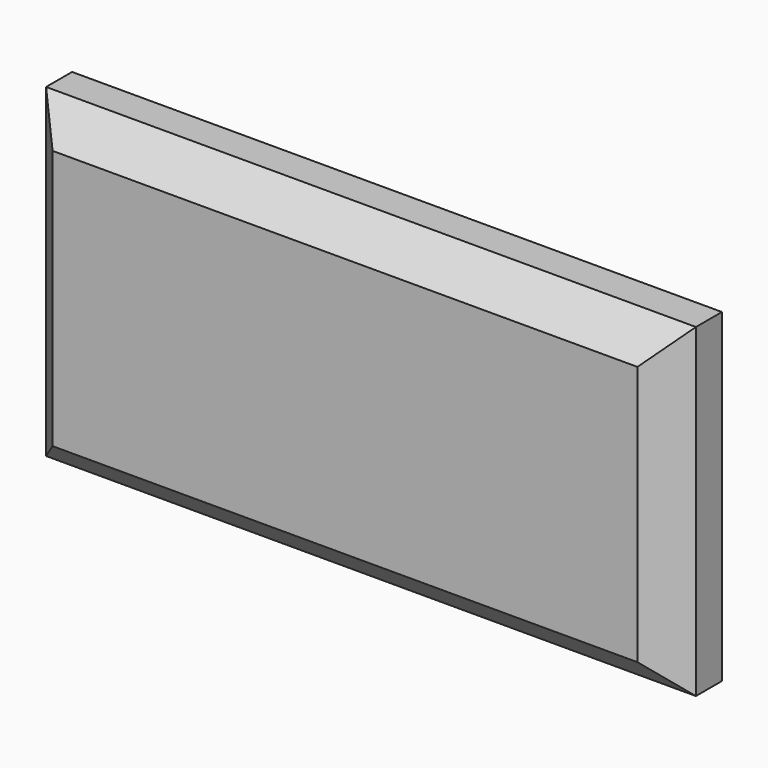
from build123d import *

# Parameters (mm, degrees)
F0_W     = 200
F0_H     = 100
F1_DEPTH = 30
F2_SIZE  = 10
F3_SIZE  = 10
F4_SIZE  = 10
F5_SIZE  = 10
F6_SIZE  = 10
F7_SIZE  = 10
F8_SIZE  = 10
F9_SIZE  = 10


with BuildPart() as f1:
    # F0 (on Front) → F1 (new body)
    with BuildSketch(Plane.XZ):
        Rectangle(F0_W, F0_H)
    extrude(amount=F1_DEPTH)

    # F2
    f2_edges = [f1.edges().sort_by_distance(p)[0] for p in [
        (0, -30, 50),
    ]]
    chamfer(f2_edges, length=F2_SIZE)

    # F3
    f3_edges = [f1.edges().sort_by_distance(p)[0] for p in [
        (0, 0, 50),
    ]]
    chamfer(f3_edges, length=F3_SIZE)

    # F4
    f4_edges = [f1.edges().sort_by_distance(p)[0] for p in [
        (0, -30, -50),
    ]]
    chamfer(f4_edges, length=F4_SIZE)

    # F5
    f5_edges = [f1.edges().sort_by_distance(p)[0] for p in [
        (0, 0, -50),
    ]]
    chamfer(f5_edges, length=F5_SIZE)

    # F6
    f6_edges = [f1.edges().sort_by_distance(p)[0] for p in [
        (-100, -30, 0),
    ]]
    chamfer(f6_edges, length=F6_SIZE)

    # F7
    f7_edges = [f1.edges().sort_by_distance(p)[0] for p in [
        (100, -30, 0),
    ]]
    chamfer(f7_edges, length=F7_SIZE)

    # F8
    f8_edges = [f1.edges().sort_by_distance(p)[0] for p in [
        (-100, 0, 0),
    ]]
    chamfer(f8_edges, length=F8_SIZE)

    # F9
    f9_edges = [f1.edges().sort_by_distance(p)[0] for p in [
        (100, 0, 0),
    ]]
    chamfer(f9_edges, length=F9_SIZE)


solid = f1.part
